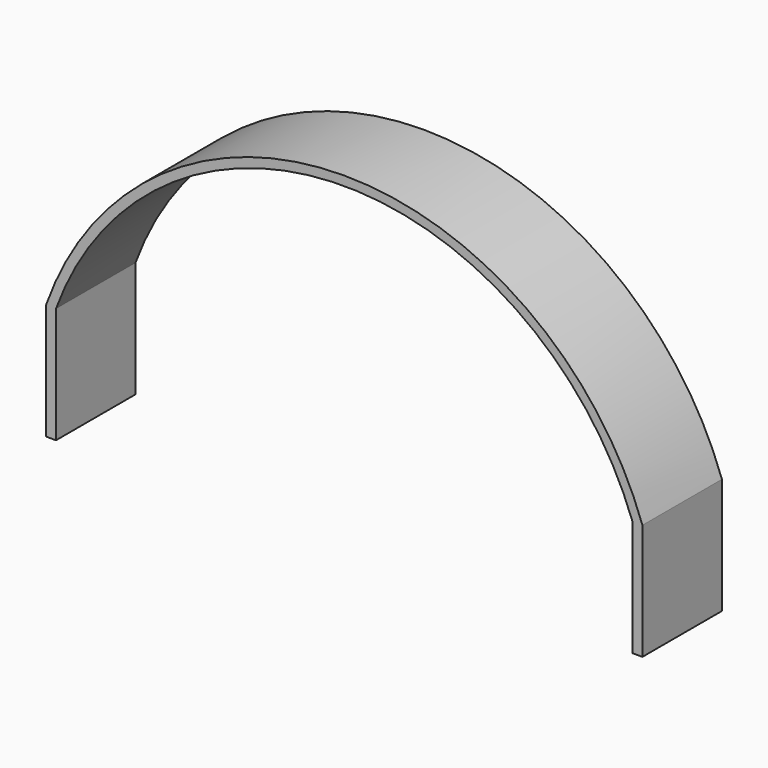
from build123d import *

# Parameters (mm, degrees)
F1_DEPTH = 30


with BuildPart() as f1:
    # F0 (on Front) → F1 (new body)
    with BuildSketch(Plane.XZ):
        with BuildLine():
            Line((94.999265, -35), (94.999265, 0))
            ThreePointArc((94.999265, 0), (4.999265, 63.648101), (-85.000735, 0))
            Line((-85.000735, 0), (-85.000735, -35))
            Line((-85.000735, -35), (-82.000735, -35))
            Line((-82.000735, -35), (-82.000735, 0))
            ThreePointArc((-82.000735, 0), (4.999265, 60.859557), (91.999265, 0))
            Line((91.999265, 0), (91.999265, -35))
            Line((91.999265, -35), (94.999265, -35))
        make_face()
    extrude(amount=F1_DEPTH)


solid = f1.part
